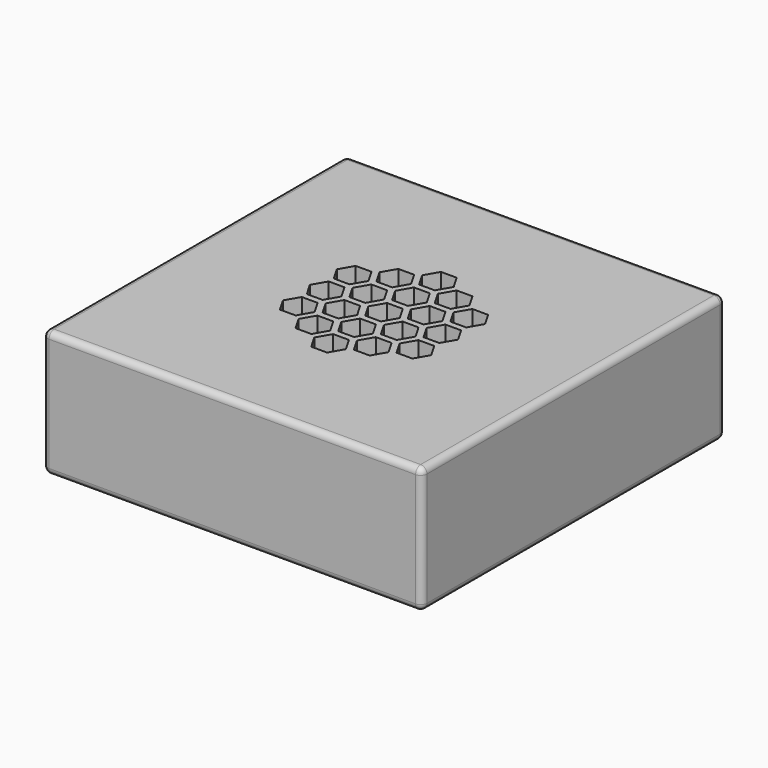
from build123d import *

# Parameters (mm, degrees)
F0_W     = 76.2
F0_H     = 76.2
F1_DEPTH = 25.4
F2_R     = 26.590625
F3_DEPTH = 12.7
F4_R     = 1.27
F6_DEPTH = 25.4


with BuildPart() as f1:
    # F0 (on Top) → F1 (new body)
    with BuildSketch(Plane.XY):
        Rectangle(F0_W, F0_H)
    extrude(amount=F1_DEPTH)

    # F2 (on face) → F3 (cut)
    with BuildSketch(Plane(origin=(0, 0, 0), x_dir=(1, 0, 0), z_dir=(0, 0, -1))):
        Circle(F2_R)
    extrude(amount=-F3_DEPTH, mode=Mode.SUBTRACT)

    # F4
    f4_edges = [f1.edges().sort_by_distance(p)[0] for p in [
        (0, -38.1, 25.4),
        (0, 38.1, 25.4),
        (38.1, 0, 25.4),
        (38.1, -38.1, 12.7),
        (38.1, 38.1, 12.7),
        (-38.1, 38.1, 12.7),
        (-38.1, -38.1, 12.7),
        (-38.1, 0, 25.4),
        (0, -38.1, 0),
        (-38.1, 0, 0),
        (0, 38.1, 0),
        (38.1, 0, 0),
    ]]
    fillet(f4_edges, radius=F4_R)

    # F5 (on face) → F6 (cut)
    with BuildSketch(Plane.XY.offset(25.4)):
        Polygon((1.5875, -2.749631), (3.175, 0), (1.5875, 2.749631), (-1.5875, 2.749631), (-3.175, 0), (-1.5875, -2.749631), align=None)
        Polygon((-3.175, 6.769261), (-1.5875, 4.019631), (1.5875, 4.019631), (3.175, 6.769261), (1.5875, 9.518892), (-1.5875, 9.518892), align=None)
        Polygon((-9.037352, 3.384631), (-7.449852, 0.635), (-4.274852, 0.635), (-2.687352, 3.384631), (-4.274852, 6.134261), (-7.449852, 6.134261), align=None)
        Polygon((-7.449852, -6.134261), (-4.274852, -6.134261), (-2.687352, -3.384631), (-4.274852, -0.635), (-7.449852, -0.635), (-9.037352, -3.384631), align=None)
        Polygon((1.5875, -9.518892), (3.175, -6.769261), (1.5875, -4.019631), (-1.5875, -4.019631), (-3.175, -6.769261), (-1.5875, -9.518892), align=None)
        Polygon((9.037352, -3.384631), (7.449852, -0.635), (4.274852, -0.635), (2.687352, -3.384631), (4.274852, -6.134261), (7.449852, -6.134261), align=None)
        Polygon((7.449852, 6.134261), (4.274852, 6.134261), (2.687352, 3.384631), (4.274852, 0.635), (7.449852, 0.635), (9.037352, 3.384631), align=None)
        Polygon((4.274852, 7.404261), (7.449852, 7.404261), (9.037352, 10.153892), (7.449852, 12.903523), (4.274852, 12.903523), (2.687352, 10.153892), align=None)
        Polygon((-7.449852, 12.903523), (-9.037352, 10.153892), (-7.449852, 7.404261), (-4.274852, 7.404261), (-2.687352, 10.153892), (-4.274852, 12.903523), align=None)
        Polygon((-14.899705, 0), (-13.312205, -2.749631), (-10.137205, -2.749631), (-8.549705, 0), (-10.137205, 2.749631), (-13.312205, 2.749631), align=None)
        Polygon((-7.449852, -12.903523), (-4.274852, -12.903523), (-2.687352, -10.153892), (-4.274852, -7.404261), (-7.449852, -7.404261), (-9.037352, -10.153892), align=None)
        Polygon((7.449852, -12.903523), (9.037352, -10.153892), (7.449852, -7.404261), (4.274852, -7.404261), (2.687352, -10.153892), (4.274852, -12.903523), align=None)
        Polygon((14.899705, 0), (13.312205, 2.749631), (10.137205, 2.749631), (8.549705, 0), (10.137205, -2.749631), (13.312205, -2.749631), align=None)
        Polygon((-1.5875, 10.788892), (1.5875, 10.788892), (3.175, 13.538523), (1.5875, 16.288153), (-1.5875, 16.288153), (-3.175, 13.538523), align=None)
        Polygon((-13.312205, 9.518892), (-14.899705, 6.769261), (-13.312205, 4.019631), (-10.137205, 4.019631), (-8.549705, 6.769261), (-10.137205, 9.518892), align=None)
        Polygon((-14.899705, -6.769261), (-13.312205, -9.518892), (-10.137205, -9.518892), (-8.549705, -6.769261), (-10.137205, -4.019631), (-13.312205, -4.019631), align=None)
        Polygon((-1.5875, -16.288153), (1.5875, -16.288153), (3.175, -13.538523), (1.5875, -10.788892), (-1.5875, -10.788892), (-3.175, -13.538523), align=None)
        Polygon((13.312205, -9.518892), (14.899705, -6.769261), (13.312205, -4.019631), (10.137205, -4.019631), (8.549705, -6.769261), (10.137205, -9.518892), align=None)
        Polygon((14.899705, 6.769261), (13.312205, 9.518892), (10.137205, 9.518892), (8.549705, 6.769261), (10.137205, 4.019631), (13.312205, 4.019631), align=None)
    extrude(amount=-F6_DEPTH, mode=Mode.SUBTRACT)


solid = f1.part
